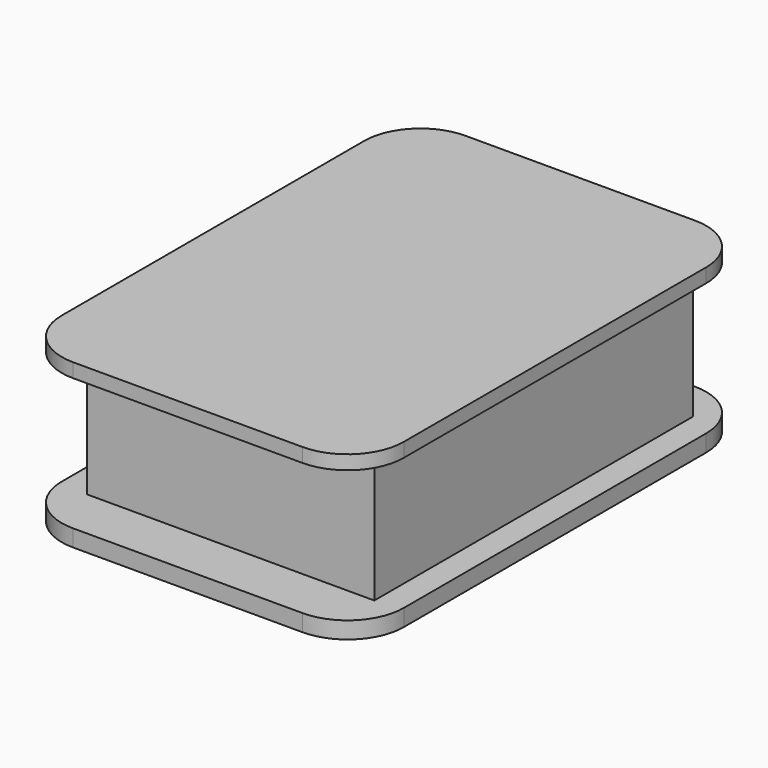
from build123d import *

# Parameters (mm, degrees)
F0_W     = 25.94131
F0_H     = 35.997212
F1_DEPTH = 11.938
F2_W     = 30.896392
F2_H     = 44.304264
F3_DEPTH = 1.27
F4_W     = 30.896392
F4_H     = 44.304264
F5_DEPTH = 1.524
F6_R     = 5.08


with BuildPart() as f1:
    # F0 (on Top) → F1 (new body)
    with BuildSketch(Plane.XY):
        with Locations((-0.437213, -17.998606)):
            Rectangle(F0_W, F0_H)
    extrude(amount=F1_DEPTH)

    # F2 (on face) → F3 (join)
    with BuildSketch(Plane.XY.offset(11.938)):
        with Locations((-0.58295, -18.508689)):
            Rectangle(F2_W, F2_H)
    extrude(amount=F3_DEPTH)

    # F4 (on face) → F5 (join)
    with BuildSketch(Plane(origin=(0, 0, 0), x_dir=(1, 0, 0), z_dir=(0, 0, -1))):
        with Locations((-0.58295, 18.508689)):
            Rectangle(F4_W, F4_H)
    extrude(amount=F5_DEPTH)

    # F6
    f6_edges = [f1.edges().sort_by_distance(p)[0] for p in [
        (14.865246, -40.660821, -0.762),
        (14.865246, -40.660821, 12.573),
        (14.865246, 3.643443, -0.762),
        (-16.031146, -40.660821, -0.762),
        (-16.031146, -40.660821, 12.573),
        (14.865246, 3.643443, 12.573),
        (-16.031146, 3.643443, 12.573),
        (-16.031146, 3.643443, -0.762),
    ]]
    fillet(f6_edges, radius=F6_R)


solid = f1.part
